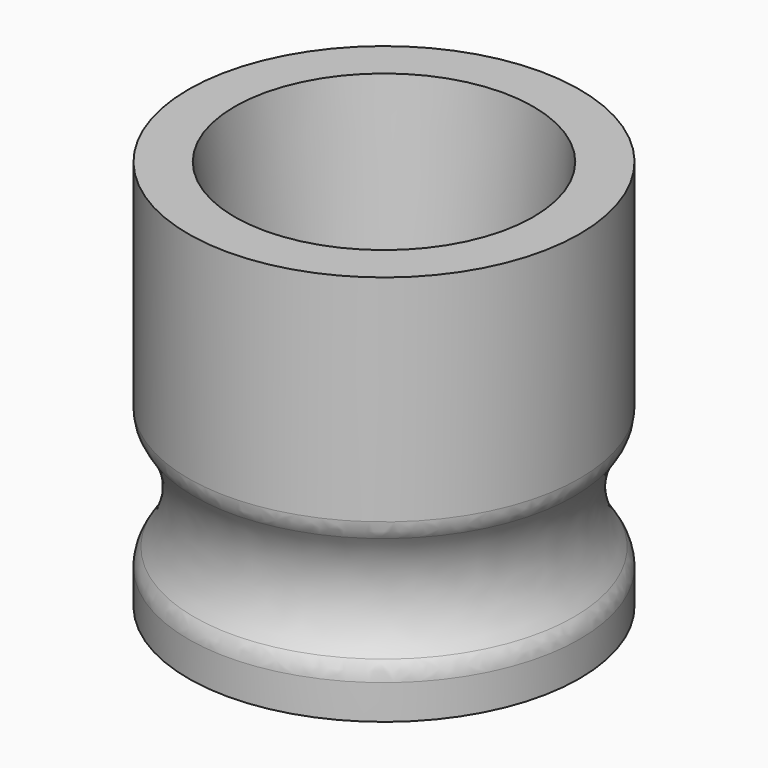
from build123d import *

# Parameters (mm, degrees)
F2_R = 1.5875
F3_R = 3.175


with BuildPart() as f1:
    # F0 (on Front) → F1 (revolve)
    with BuildSketch(Plane.XZ):
        with BuildLine():
            Line((3.175, 6.35), (3.175, 0))
            Line((3.175, 0), (20.6375, 0))
            Line((20.6375, 0), (20.6375, 4.7625))
            ThreePointArc((20.6375, 4.7625), (18.212016, 11.1125), (20.6375, 17.4625))
            Line((20.6375, 17.4625), (20.6375, 41.275))
            Line((20.6375, 41.275), (15.755542, 41.275))
            Line((15.755542, 41.275), (12.7, 6.35))
            Line((12.7, 6.35), (3.175, 6.35))
        make_face()
    revolve(axis=Axis((0, 0, 42.399504), (0, 0, 1)))

    # F2
    f2_edges = [f1.edges().sort_by_distance(p)[0] for p in [
        (-12.7, 0, 6.35),
    ]]
    fillet(f2_edges, radius=F2_R)

    # F3
    f3_edges = [f1.edges().sort_by_distance(p)[0] for p in [
        (-20.6375, 0, 17.4625),
        (-20.6375, 0, 4.7625),
    ]]
    fillet(f3_edges, radius=F3_R)


solid = f1.part
